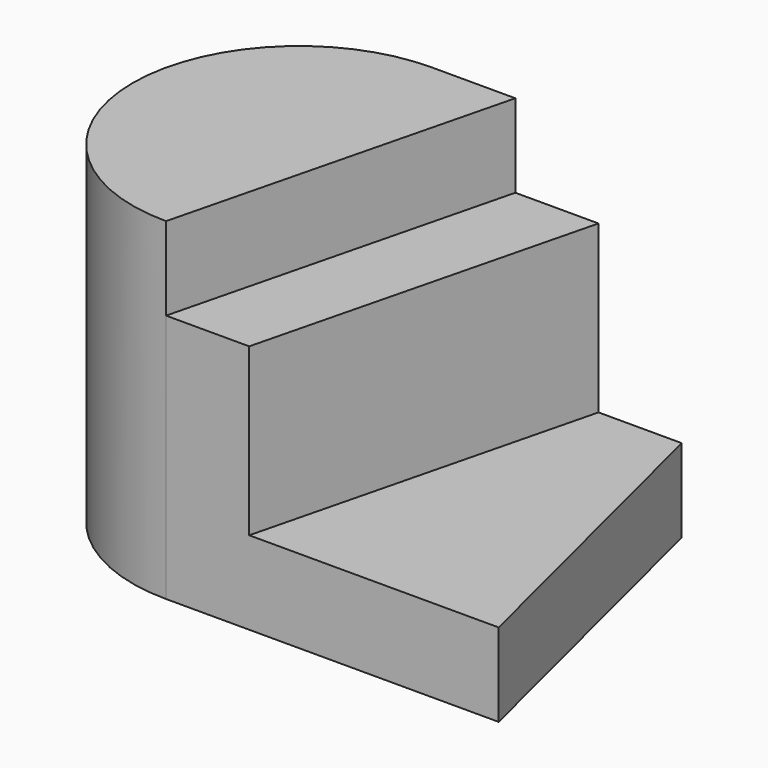
from build123d import *

# Parameters (mm, degrees)
F1_DEPTH = 10
F2_DEPTH = 30
F3_DEPTH = 40


with BuildPart() as f1:
    # F0 (on Top) → F1 (new body)
    with BuildSketch(Plane.XY):
        Polygon((20, 20), (10, -20), (40, -20), (30, 20), align=None)
    extrude(amount=F1_DEPTH)

    # F0 (on Top) → F2 (join)
    with BuildSketch(Plane.XY):
        Polygon((10, 20), (0, -20), (10, -20), (20, 20), align=None)
    extrude(amount=F2_DEPTH)

    # F0 (on Top) → F3 (join)
    with BuildSketch(Plane.XY):
        with BuildLine():
            Line((10, 20), (0, 20))
            ThreePointArc((0, 20), (-20, 0), (0, -20))
            Line((0, -20), (10, 20))
        make_face()
    extrude(amount=F3_DEPTH)


solid = f1.part
